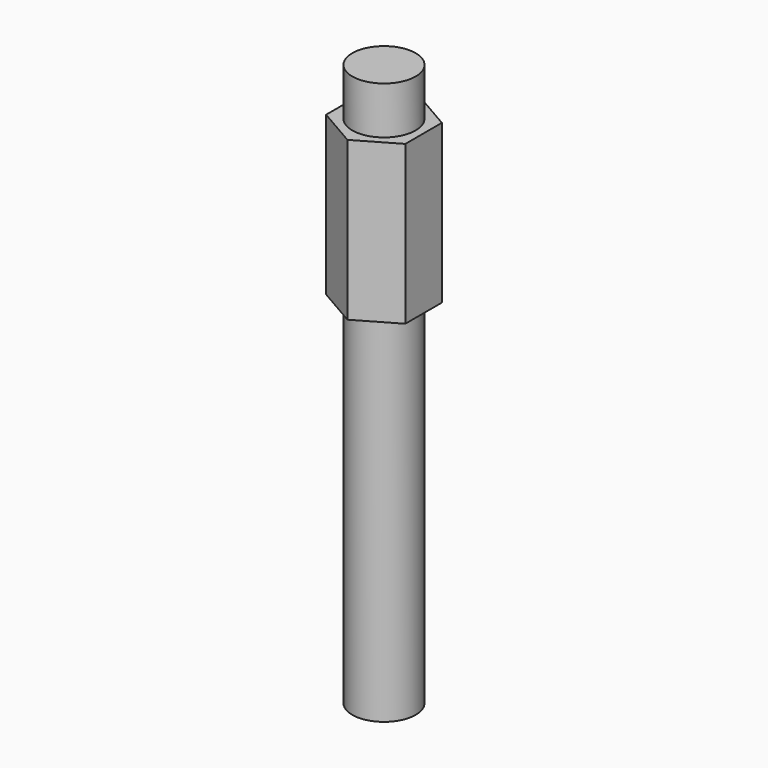
from build123d import *

# Parameters (mm, degrees)
F1_DEPTH = 20
F2_R     = 4
F3_DEPTH = 45
F4_R     = 4
F5_DEPTH = 6


with BuildPart() as f1:
    # F0 (on Top) → F1 (new body)
    with BuildSketch(Plane.XY):
        Polygon((5, 2.8867513459), (0, 5.7735026919), (-5, 2.8867513459), (-5, -2.8867513459), (0, -5.7735026919), (5, -2.8867513459), align=None)
    extrude(amount=F1_DEPTH)

    # F2 (on face) → F3 (join)
    with BuildSketch(Plane(origin=(0, 0, 0), x_dir=(1, 0, 0), z_dir=(0, 0, -1))):
        Circle(F2_R)
    extrude(amount=F3_DEPTH)

    # F4 (on face) → F5 (join)
    with BuildSketch(Plane.XY.offset(20)):
        Circle(F4_R)
    extrude(amount=F5_DEPTH)


solid = f1.part
